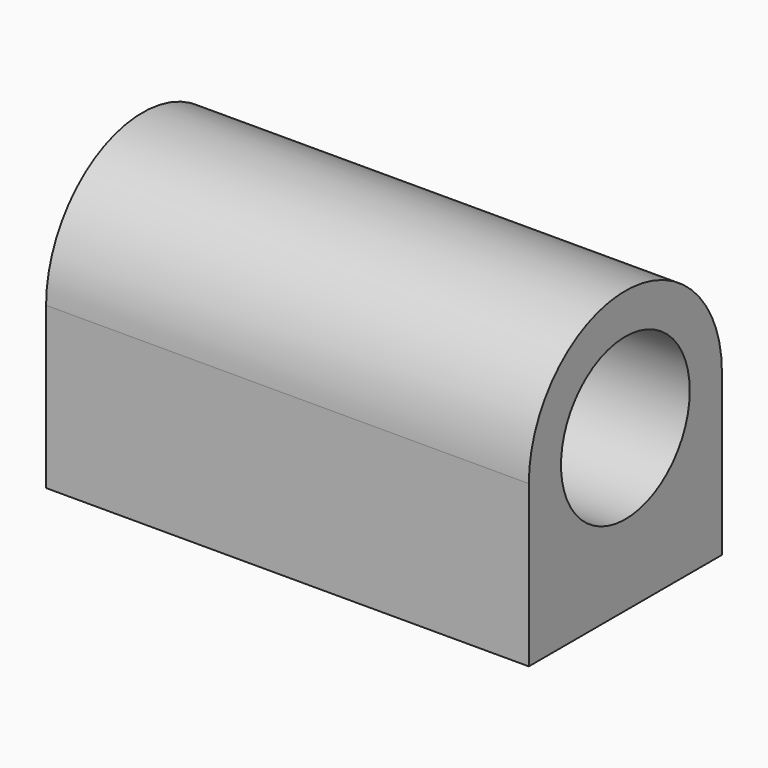
from build123d import *

# Parameters (mm, degrees)
F0_R     = 12.7
F1_DEPTH = 38.1


with BuildPart() as f1:
    # F0 (on Right) → F1 (new body, symmetric)
    with BuildSketch(Plane.YZ):
        with BuildLine():
            ThreePointArc((19.05, 0), (0, 19.05), (-19.05, 0))
            Line((-19.05, 0), (-19.05, -25.4))
            Line((-19.05, -25.4), (19.05, -25.4))
            Line((19.05, -25.4), (19.05, 0))
        make_face()
        Circle(F0_R, mode=Mode.SUBTRACT)
    extrude(amount=F1_DEPTH, both=True)


solid = f1.part
